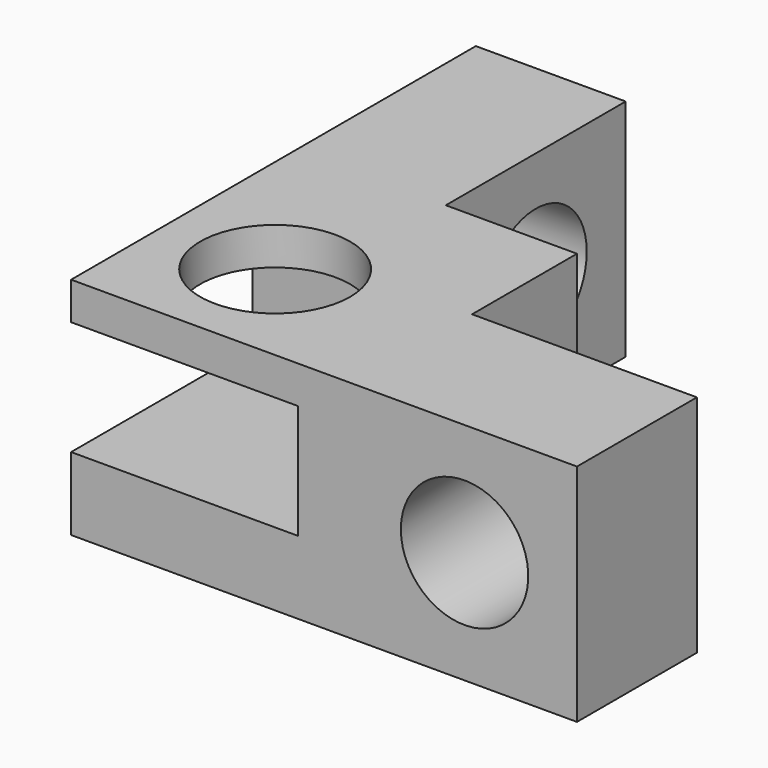
from build123d import *

# Parameters (mm, degrees)
SKETCH_W        = 7.5
SKETCH_H        = 7.5
PAD_DEPTH       = 6
SKETCH001_W     = 4
SKETCH001_H     = 6
PAD001_DEPTH    = 6
SKETCH002_W     = 4
SKETCH002_H     = 6
PAD002_DEPTH    = 6
SKETCH003_R     = 1.7
HOLE_DEPTH      = 4
HOLE_TIPS_R     = 1.7
SKETCH004_R     = 1.7
HOLE001_DEPTH   = 4
HOLE001_TIPS_R  = 1.7
SKETCH005_W     = 6.05
SKETCH005_H     = 3.05
POCKET_DEPTH    = 6.05
SKETCH006_R     = 2
POCKET001_DEPTH = 1


with BuildPart() as part:
    # Sketch → Pad (new body)
    with BuildSketch(Plane.XY):
        Rectangle(SKETCH_W, SKETCH_H)
    extrude(amount=PAD_DEPTH)

    # Sketch001 (on Face2 of Pad) → Pad001 (join)
    with BuildSketch(Plane(origin=(0, 3.75, 0), x_dir=(-1, 0, 0), z_dir=(0, 1, 0))):
        with Locations((1.75, 3)):
            Rectangle(SKETCH001_W, SKETCH001_H)
    extrude(amount=PAD001_DEPTH)

    # Sketch002 (on Face2 of Pad001) → Pad002 (join)
    with BuildSketch(Plane.YZ.offset(3.75)):
        with Locations((-1.75, 3)):
            Rectangle(SKETCH002_W, SKETCH002_H)
    extrude(amount=PAD002_DEPTH)

    # Sketch003 (on Face6 of Pad002) → Hole (cut)
    with BuildSketch(Plane(origin=(0, 0.25, 0), x_dir=(-1, 0, 0), z_dir=(0, 1, 0))):
        with Locations((-6.75, 3)):
            Circle(SKETCH003_R)
    extrude(amount=-HOLE_DEPTH, mode=Mode.SUBTRACT)

    # Hole tips → Hole tip 1 section 0
    with BuildSketch(Plane(origin=(0, -3.75, 0), x_dir=(-1, 0, 0), z_dir=(0, 1, 0)), mode=Mode.PRIVATE) as hole_tip_1_s0:
        with Locations((-6.75, 3)):
            Circle(HOLE_TIPS_R)
    loft([hole_tip_1_s0.sketch, Vertex(6.75, -4.771463, 3)], mode=Mode.SUBTRACT)

    # Sketch004 (on Face11 of Hole) → Hole001 (cut)
    with BuildSketch(Plane.YZ.offset(0.25)):
        with Locations((6.75, 3)):
            Circle(SKETCH004_R)
    extrude(amount=-HOLE001_DEPTH, mode=Mode.SUBTRACT)

    # Hole001 tips → Hole001 tip 1 section 0
    with BuildSketch(Plane.YZ.offset(-3.75), mode=Mode.PRIVATE) as hole001_tip_1_s0:
        with Locations((6.75, 3)):
            Circle(HOLE001_TIPS_R)
    loft([hole001_tip_1_s0.sketch, Vertex(-4.771463, 6.75, 3)], mode=Mode.SUBTRACT)

    # Sketch005 (on Face2 of Hole001) → Pocket (cut)
    with BuildSketch(Plane.XZ.offset(3.75)):
        with Locations((-0.725, 3.475)):
            Rectangle(SKETCH005_W, SKETCH005_H)
    extrude(amount=-POCKET_DEPTH, mode=Mode.SUBTRACT)

    # Sketch006 (on Face4 of Pocket) → Pocket001 (cut)
    with BuildSketch(Plane.XY.offset(6)):
        with Locations((-0.725, -0.725)):
            Circle(SKETCH006_R)
    extrude(amount=-POCKET001_DEPTH, mode=Mode.SUBTRACT)


solid = part.part
